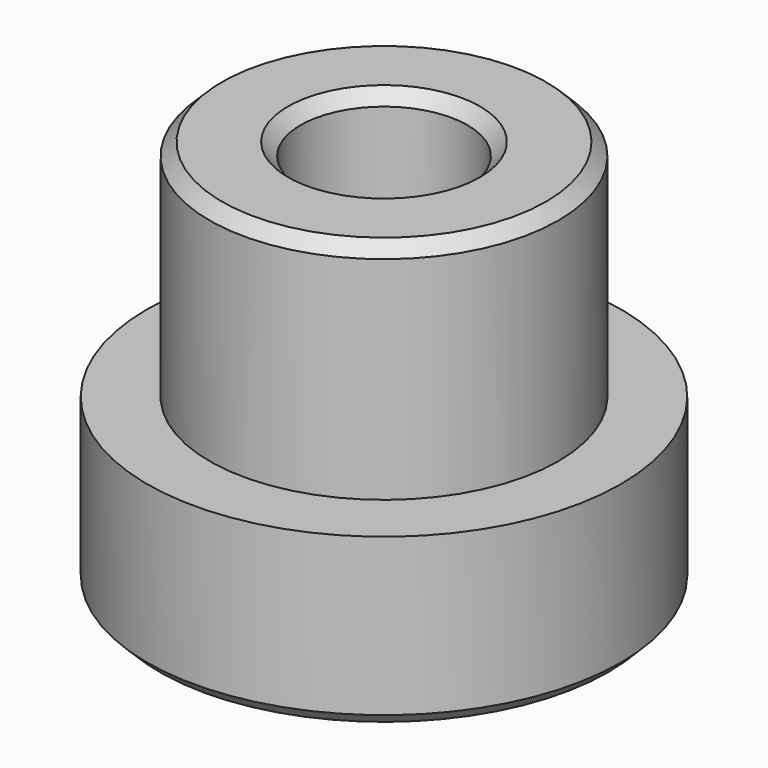
from build123d import *

# Parameters (mm, degrees)
F0_R     = 9.5
F1_DEPTH = 6.8
F2_R     = 7
F3_DEPTH = 9
F5_DEPTH = 4.8
F6_R     = 3.35
F7_DEPTH = 15.801
F8_SIZE  = 0.5


with BuildPart() as f1:
    # F0 (on Top) → F1 (new body)
    with BuildSketch(Plane.XY):
        Circle(F0_R)
    extrude(amount=F1_DEPTH)

    # F2 (on face) → F3 (join)
    with BuildSketch(Plane.XY.offset(6.8)):
        Circle(F2_R)
    extrude(amount=F3_DEPTH)

    # F4 (on face) → F5 (cut)
    with BuildSketch(Plane(origin=(0, 0, 0), x_dir=(1, 0, 0), z_dir=(0, 0, -1))):
        Polygon((-5.15, -2.973354), (0, -5.946708), (5.15, -2.973354), (5.15, 2.973354), (0, 5.946708), (-5.15, 2.973354), align=None)
    extrude(amount=-F5_DEPTH, mode=Mode.SUBTRACT)

    # F6 (on face) → F7 (cut, through all)
    with BuildSketch(Plane.XY.offset(15.8)):
        Circle(F6_R)
    extrude(amount=-F7_DEPTH, mode=Mode.SUBTRACT)

    # F8
    f8_edges = [f1.edges().sort_by_distance(p)[0] for p in [
        (-7, 0, 15.8),
        (-3.35, 0, 15.8),
        (-9.5, 0, 0),
    ]]
    chamfer(f8_edges, length=F8_SIZE)


solid = f1.part
